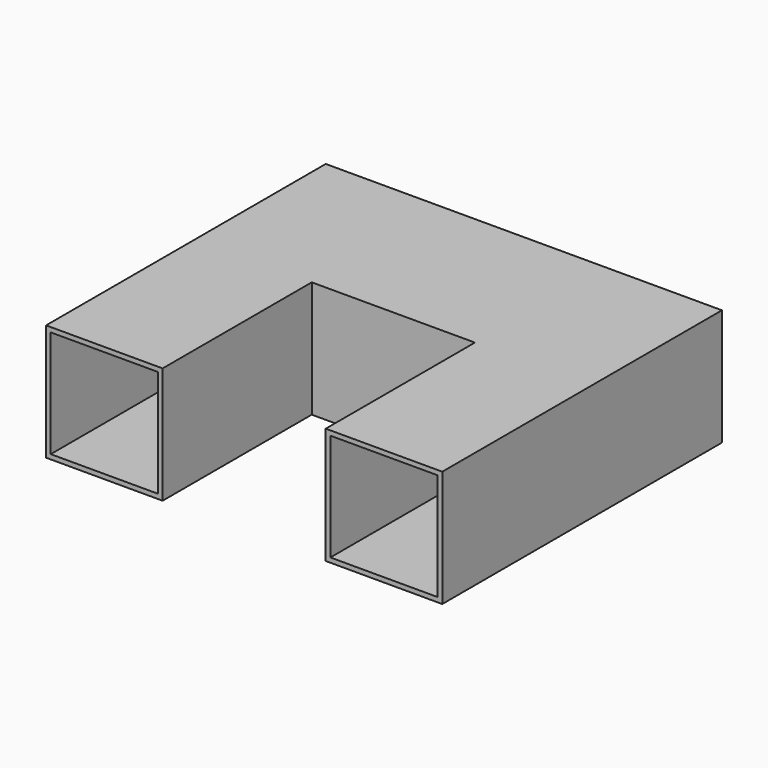
from build123d import *

# Parameters (mm, degrees)
F0_W     = 50
F0_H     = 50
F0_W_2   = 46
F0_H_2   = 46
F1_DEPTH = 75
F2_W     = 70
F2_H     = 50
F2_W_2   = 66
F2_H_2   = 46
F3_DEPTH = 35


with BuildPart() as f1:
    # F0 (on Front) → F1 (new body, symmetric)
    with BuildSketch(Plane.XZ):
        Rectangle(F0_W, F0_H)
        Rectangle(F0_W_2, F0_H_2, mode=Mode.SUBTRACT)
    extrude(amount=F1_DEPTH, both=True)

    # F2 (on face) → F3 (join)
    with BuildSketch(Plane.YZ.offset(25)):
        with Locations((40, 0)):
            Rectangle(F2_W, F2_H)
        with Locations((40, 0)):
            Rectangle(F2_W_2, F2_H_2, mode=Mode.SUBTRACT)
    extrude(amount=F3_DEPTH)

    # F5: F1 across plane


with BuildPart() as f1_1:
    add(f1.part)
    add(f1.part.mirror(Plane(origin=(60, 40, 0), x_dir=(0, 1, 0), z_dir=(1, 0, 0))))


solid = f1_1.part
